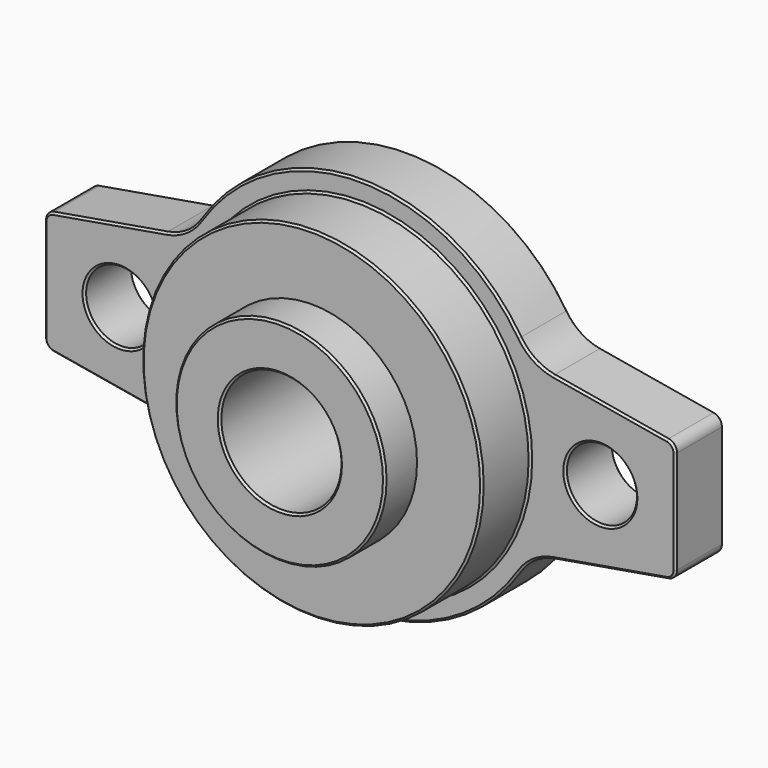
from build123d import *

# Parameters (mm, degrees)
F0_R     = 3.5
F0_R_2   = 10.5
F1_DEPTH = 6
F2_R     = 10.5
F2_R_2   = 6
F3_DEPTH = 16
F4_R     = 17
F4_R_2   = 10.5
F5_DEPTH = 6
F6_R     = 5
F7_R     = 1
F8_SIZE  = 0.2
F9_SIZE  = 0.2


with BuildPart() as f1:
    # F0 (on Front) → F1 (new body)
    with BuildSketch(Plane.XZ):
        with BuildLine():
            Line((-31.5, 6), (-31.5, -6))
            Line((-31.5, -6), (-17, -8.485281))
            ThreePointArc((-17, -8.485281), (-19, 0), (-17, 8.485281))
            Line((-17, 8.485281), (-31.5, 6))
        make_face()
        with Locations((-24, 0)):
            Circle(F0_R, mode=Mode.SUBTRACT)
        with BuildLine():
            ThreePointArc((-17, 8.485281), (-19, 0), (-17, -8.485281))
            ThreePointArc((-17, -8.485281), (0, -19), (17, -8.485281))
            ThreePointArc((17, -8.485281), (18.493242, -4.358899), (19, 0))
            ThreePointArc((19, 0), (18.493242, 4.358899), (17, 8.485281))
            ThreePointArc((17, 8.485281), (0, 19), (-17, 8.485281))
        make_face()
        Circle(F0_R_2, mode=Mode.SUBTRACT)
        with BuildLine():
            ThreePointArc((19, 0), (18.493242, -4.358899), (17, -8.485281))
            Line((17, -8.485281), (31.5, -6))
            Line((31.5, -6), (31.5, 6))
            Line((31.5, 6), (17, 8.485281))
            ThreePointArc((17, 8.485281), (18.493242, 4.358899), (19, 0))
        make_face()
        with Locations((24, 0)):
            Circle(F0_R, mode=Mode.SUBTRACT)
    extrude(amount=F1_DEPTH)

    # F2 (on Front) → F3 (join)
    with BuildSketch(Plane.XZ):
        Circle(F2_R)
        Circle(F2_R_2, mode=Mode.SUBTRACT)
    extrude(amount=F3_DEPTH)

    # F4 (on face) → F5 (join)
    with BuildSketch(Plane.XZ.offset(6)):
        Circle(F4_R)
        Circle(F4_R_2, mode=Mode.SUBTRACT)
    extrude(amount=F5_DEPTH)

    # F6
    f6_edges = [f1.edges().sort_by_distance(p)[0] for p in [
        (-17, -3, -8.485281),
        (17, -3, -8.485281),
        (17, -3, 8.485281),
        (-17, -3, 8.485281),
    ]]
    fillet(f6_edges, radius=F6_R)

    # F7
    f7_edges = [f1.edges().sort_by_distance(p)[0] for p in [
        (-31.5, -3, -6),
        (31.5, -3, -6),
        (31.5, -3, 6),
        (-31.5, -3, 6),
    ]]
    fillet(f7_edges, radius=F7_R)

    # F8
    f8_edges = [f1.edges().sort_by_distance(p)[0] for p in [
        (-17, -12, 0),
        (24.994126, -6, -7.115098),
        (31.264505, -6, -5.801434),
        (17.408545, -6, -8.843659),
        (31.5, -6, 0),
        (0, -6, -19),
        (31.264505, -6, 5.801434),
        (-17.408545, -6, -8.843659),
        (24.994126, -6, 7.115098),
        (-24.994126, -6, -7.115098),
        (17.408545, -6, 8.843659),
        (-31.264505, -6, -5.801434),
        (0, -6, 19),
        (-31.5, -6, 0),
        (-17.408545, -6, 8.843659),
        (-31.264505, -6, 5.801434),
        (-24.994126, -6, 7.115098),
        (-27.5, -6, 0),
        (-17, -6, 0),
        (20.5, -6, 0),
        (24.994126, 0, 7.115098),
        (31.264505, 0, 5.801434),
        (17.408545, 0, 8.843659),
        (31.5, 0, 0),
        (0, 0, 19),
        (31.264505, 0, -5.801434),
        (-17.408545, 0, 8.843659),
        (24.994126, 0, -7.115098),
        (-24.994126, 0, 7.115098),
        (17.408545, 0, -8.843659),
        (-31.264505, 0, 5.801434),
        (0, 0, -19),
        (-31.5, 0, 0),
        (-17.408545, 0, -8.843659),
        (-31.264505, 0, -5.801434),
        (-24.994126, 0, -7.115098),
        (-27.5, 0, 0),
        (20.5, 0, 0),
        (-6, 0, 0),
    ]]
    chamfer(f8_edges, length=F8_SIZE)

    # F9
    f9_edges = [f1.edges().sort_by_distance(p)[0] for p in [
        (-10.5, -16, 0),
        (-6, -16, 0),
    ]]
    chamfer(f9_edges, length=F9_SIZE)


solid = f1.part
